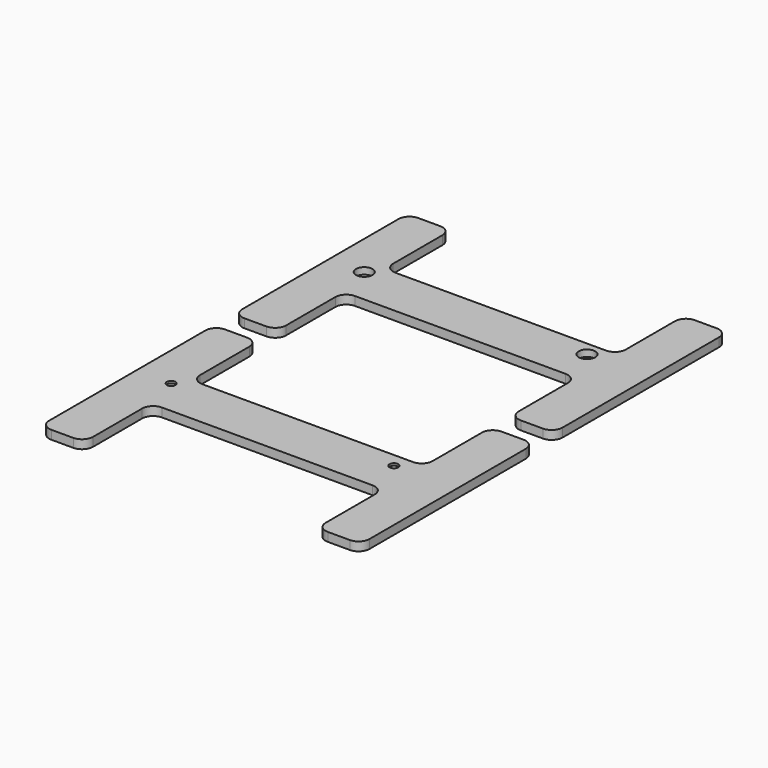
from build123d import *

# Parameters (mm, degrees)
F0_W     = 20
F0_H     = 38
F0_R     = 3.75
F0_R_2   = 2
F1_DEPTH = 4
F2_R     = 5
F5_DEPTH = 3
F6_R     = 3.75
F6_R_2   = 2
F7_DEPTH = 3


with BuildPart() as f1:
    # F0 (on Top) → F1 (new body)
    with BuildSketch(Plane.XY):
        with Locations((-74.0909231007, -7.2973352671)):
            Rectangle(F0_W, F0_H)
        with Locations((-74.0909231007, -68.2973352671)):
            Rectangle(F0_W, F0_H)
        Polygon((-64.0909231007, -26.2973352671), (-84.0909231007, -26.2973352671), (-84.0909231007, -49.2973352671), (-64.0909231007, -49.2973352671), (41.9090768993, -49.2973352671), (61.9090768993, -49.2973352671), (61.9090768993, -26.2973352671), (41.9090768993, -26.2973352671), align=None)
        with Locations((-68.0909231007, -32.7973352671)):
            Circle(F0_R, mode=Mode.SUBTRACT)
        with Locations((33.4090768993, -32.7973352671)):
            Circle(F0_R, mode=Mode.SUBTRACT)
        with Locations((51.9090768993, -7.2973352671)):
            Rectangle(F0_W, F0_H)
        with Locations((51.9090768993, -68.2973352671)):
            Rectangle(F0_W, F0_H)
        with Locations((-68.0909231007, -32.7973352671)):
            Circle(F0_R)
        with Locations((-68.0909231007, -32.7973352671)):
            Circle(F0_R_2, mode=Mode.SUBTRACT)
        with Locations((33.4090768993, -32.7973352671)):
            Circle(F0_R)
        with Locations((33.4090768993, -32.7973352671)):
            Circle(F0_R_2, mode=Mode.SUBTRACT)
    extrude(amount=F1_DEPTH)

    # F2
    f2_edges = [f1.edges().sort_by_distance(p)[0] for p in [
        (-64.090923, -49.297335, 2),
        (-64.090923, -87.297335, 2),
        (41.909077, -87.297335, 2),
        (61.909077, -87.297335, 2),
        (-84.090923, -87.297335, 2),
        (-64.090923, -26.297335, 2),
        (-84.090923, 11.702665, 2),
        (-64.090923, 11.702665, 2),
        (41.909077, -26.297335, 2),
        (41.909077, 11.702665, 2),
        (61.909077, 11.702665, 2),
        (41.909077, -49.297335, 2),
    ]]
    fillet(f2_edges, radius=F2_R)


with BuildPart() as f3_1:
    # F3: copy of F1
    add(f1.part)


with BuildPart() as f3_1_1:
    # F4: moved
    add(f3_1.part.moved(Location((0, 110, 0))))

    # F6 (on face) → F7 (cut)
    with BuildSketch(Plane.XY.offset(4)):
        with Locations((-68.0909231007, 77.2026647329)):
            Circle(F6_R)
        with Locations((-68.0909231007, 77.2026647329)):
            Circle(F6_R_2, mode=Mode.SUBTRACT)
        with Locations((33.4090768993, 77.2026647329)):
            Circle(F6_R)
        with Locations((33.4090768993, 77.2026647329)):
            Circle(F6_R_2, mode=Mode.SUBTRACT)
    extrude(amount=-F7_DEPTH, mode=Mode.SUBTRACT)


with BuildPart() as f1_1:
    add(f1.part)

    # F0 (on Top) → F5 (cut)
    with BuildSketch(Plane.XY):
        with Locations((-68.0909231007, -32.7973352671)):
            Circle(F0_R)
        with Locations((-68.0909231007, -32.7973352671)):
            Circle(F0_R_2, mode=Mode.SUBTRACT)
        with Locations((33.4090768993, -32.7973352671)):
            Circle(F0_R)
        with Locations((33.4090768993, -32.7973352671)):
            Circle(F0_R_2, mode=Mode.SUBTRACT)
    extrude(amount=F5_DEPTH, mode=Mode.SUBTRACT)


solid = Compound([f3_1_1.part, f1_1.part])
